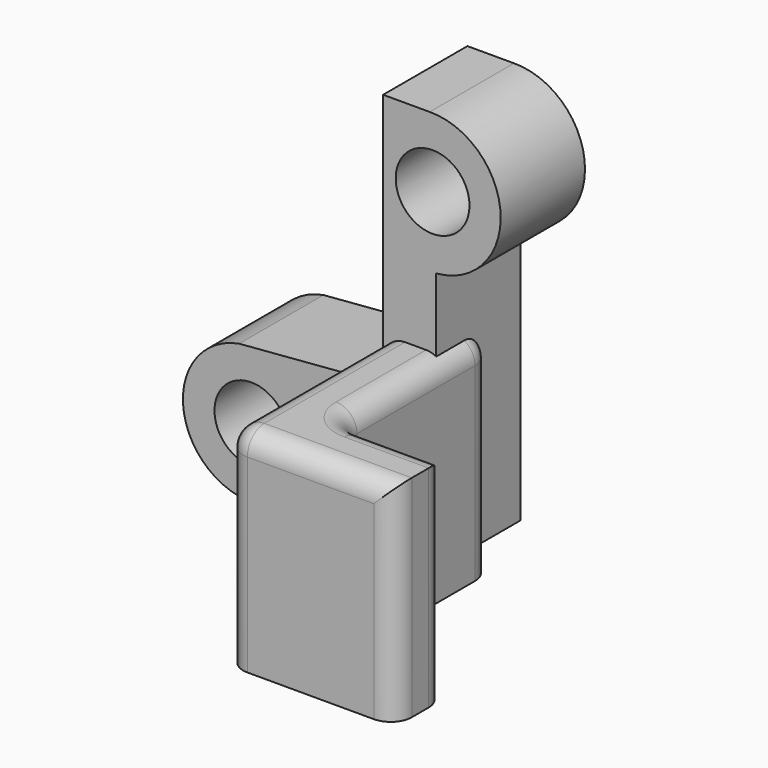
from build123d import *

# Parameters (mm, degrees)
CYLINDER054_R     = 1.75
CYLINDER054_DEPTH = 15
CYLINDER051_R     = 1.75
CYLINDER051_DEPTH = 15
EXTRUDE003_DEPTH  = 10
FILLET021_R       = 1
EXTRUDE004_DEPTH  = 5


with BuildPart() as m3holds022:
    # Cylinder054 → Cylinder054 (new body)
    with BuildSketch(Plane(origin=(6, 0.25, -9), x_dir=(1, 0, 0), z_dir=(0, -1, 0))):
        Circle(CYLINDER054_R)
    extrude(amount=CYLINDER054_DEPTH)


with BuildPart() as fusion065:
    # Cylinder051 → Cylinder051 (new body)
    with BuildSketch(Plane(origin=(14.6, 0.25, 3.5), x_dir=(1, 0, 0), z_dir=(0, -1, 0))):
        Circle(CYLINDER051_R)
    extrude(amount=CYLINDER051_DEPTH)

    # Fusion065: union m3Holds022
    add(m3holds022.part)


with BuildPart() as fillet021:
    # Sketch005 → Extrude003 (new body)
    with BuildSketch(Plane.XY):
        Polygon((57.709053, -19.346786), (57.709053, -22.346786), (65.709053, -22.346786), (65.709053, -10.346786), (62.709053, -10.346786), (62.709053, -19.346786), align=None)
    extrude(amount=EXTRUDE003_DEPTH)


with BuildPart() as fillet021_1:
    # Extrude003 placement: moved
    add(fillet021.part.moved(Location((0, 0, -14))))

    # Fillet021
    fillet021_edges = [fillet021_1.edges().sort_by_distance(p)[0] for p in [
        (57.709053, -19.346786, -9),
        (57.709053, -22.346786, -9),
        (65.709053, -22.346786, -9),
        (61.709053, -22.346786, -4),
        (65.709053, -10.346786, -9),
        (65.709053, -16.346786, -4),
        (62.709053, -10.346786, -9),
        (64.209053, -10.346786, -4),
        (62.709053, -19.346786, -9),
        (62.709053, -14.846786, -4),
        (60.209053, -19.346786, -4),
    ]]
    fillet(fillet021_edges, radius=FILLET021_R)


with BuildPart() as fillet021_2:
    # Fillet021 placement: moved
    add(fillet021_1.part.moved(Location((0, 0, 0.4))))


with BuildPart() as part_mirroring005:
    # Part__Mirroring005: instance of Fillet021
    add(fillet021_2.part.mirror(Plane(origin=(0, 0, 0), x_dir=(0, -1, 0), z_dir=(1, 0, 0))))


with BuildPart() as part_mirroring005_1:
    # Part__Mirroring005 placement: moved
    add(part_mirroring005.part.moved(Location((78, 0, 0.4))))


with BuildPart() as c4holdbottomleft:
    # Sketch006 → Extrude004 (new body)
    with BuildSketch(Plane.XZ):
        with BuildLine():
            ThreePointArc((14.771842, 0.154152), (17.827348, 3.62591), (14.461083, 6.797264))
            Line((14.461083, 6.797264), (12.252875, 6.797264))
            Line((12.252875, -5.267611), (12.252875, 6.797264))
            Line((5.422805, -5.82309), (12.252875, -5.267611))
            ThreePointArc((5.422805, -5.82309), (2.802341, -9.576998), (6.556249, -12.197462))
            Line((6.556249, -12.197462), (14.771842, -12.197462))
            Line((14.771842, -12.197462), (14.771842, 0.154152))
        make_face()
    extrude(amount=EXTRUDE004_DEPTH)


with BuildPart() as c4holdbottomleft_1:
    # Extrude004 placement: moved
    add(c4holdbottomleft.part.moved(Location((0, -8, 0))))

    # Fusion067: union Part__Mirroring005
    add(part_mirroring005_1.part)

    # Cut013: cut Fusion065
    add(fusion065.part, mode=Mode.SUBTRACT)


solid = c4holdbottomleft_1.part
